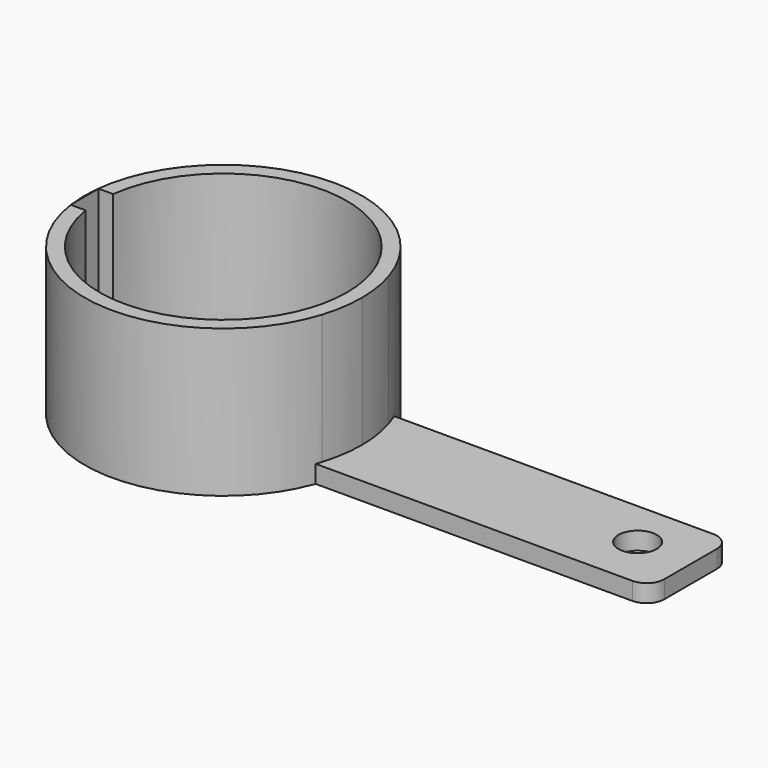
from build123d import *

# Parameters (mm, degrees)
F1_DEPTH = 25
F2_T     = -2.5
F3_W     = 57.5590915978
F3_H     = 17.1818211675
F4_DEPTH = 3
F6_D     = 6.5
F6_DEPTH = 20
F6_TIP   = 1.9527970118
F3_W_2   = 2.5772750378
F3_H_2   = 5.9181824327
F7_DEPTH = 25
F8_R     = 3


with BuildPart() as f1:
    # F0 (on Top) → F1 (new body)
    with BuildSketch(Plane.XY):
        with BuildLine():
            ThreePointArc((-21.8846033079, 32.9097392278), (-21.0659438034, 36.4106418656), (-20.7909114063, 39.9954542518))
            ThreePointArc((-20.7909114063, 39.9954542518), (-21.0659438034, 43.580266638), (-21.8846033079, 47.0811692758))
            ThreePointArc((-21.8846033079, 47.0811692758), (-67.7909114063, 39.9954542518), (-21.8846033079, 32.9097392278))
        make_face()
    extrude(amount=F1_DEPTH)

    # F2
    f2_openings = [f1.faces().sort_by_distance(p)[0] for p in [
        (-44.290911, 39.995454, 25),
    ]]
    offset(amount=F2_T, openings=f2_openings)

    # F3 (on Top) → F4 (join)
    with BuildSketch(Plane.XY):
        with Locations((5.7749990374, 40.5681841075)):
            Rectangle(F3_W, F3_H)
    extrude(amount=F4_DEPTH)

    # F6
    with Locations(Plane(origin=(0, 0, 0), x_dir=(1, 0, 0), z_dir=(0, 0, -1))):
        with Locations((25.1045487821, -41.140910238)):
            Hole(F6_D / 2, depth=F6_DEPTH)
            with Locations((0, 0, -(F6_DEPTH + F6_TIP / 2))):  # 118° drill point
                Cone(0, F6_D / 2, F6_TIP, mode=Mode.SUBTRACT)

    # F3 (on Top) → F7 (cut)
    with BuildSketch(Plane.XY):
        with Locations((-66.2931874394, 39.7090911865)):
            Rectangle(F3_W_2, F3_H_2)
    extrude(amount=F7_DEPTH, mode=Mode.SUBTRACT)

    # F8
    f8_edges = [f1.edges().sort_by_distance(p)[0] for p in [
        (34.554545, 31.977274, 1.5),
        (34.554545, 49.159095, 1.5),
    ]]
    fillet(f8_edges, radius=F8_R)


solid = f1.part
